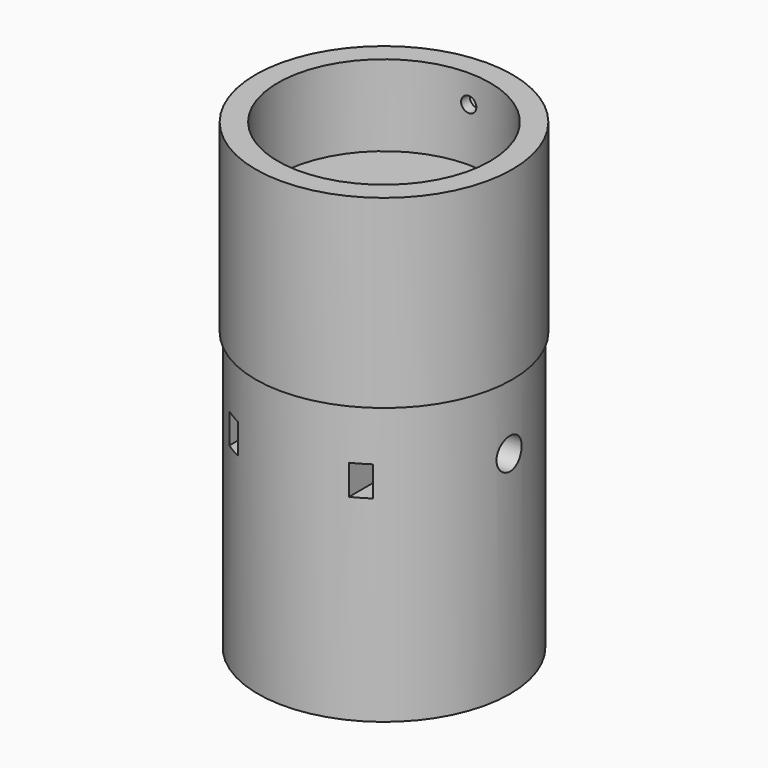
from build123d import *

# Parameters (mm, degrees)
CYLINDER005_R     = 1.65
CYLINDER005_DEPTH = 50
CYLINDER006_R     = 3.25
CYLINDER006_DEPTH = 2.5
BOX001_W          = 80
BOX001_H          = 100
BOX001_DEPTH      = 9.5
CYLINDER003_R     = 22.95
CYLINDER003_DEPTH = 27
CYLINDER004_R     = 27.75
CYLINDER004_DEPTH = 40
SKETCH006_R       = 27.25
SKETCH006_R_2     = 8.7
PAD_DEPTH         = 60
SKETCH007_W       = 3.5
SKETCH007_H       = 6.5
POCKET007_DEPTH   = 32.1
SKETCH008_R       = 1.7
POCKET008_DEPTH   = 30
SKETCH009_R       = 3.4
POCKET009_DEPTH   = 10
SKETCH010_R       = 1.7
POCKET010_DEPTH   = 30
SKETCH011_R       = 3.4
POCKET011_DEPTH   = 10
SKETCH012_W       = 3.5
SKETCH012_H       = 6.5
POCKET012_DEPTH   = 32.1


with BuildPart() as cylinder:
    # Cylinder005 → Cylinder005 (new body)
    with BuildSketch(Plane(origin=(0, 50, 20), x_dir=(1, 0, 0), z_dir=(0, -1, 0))):
        Circle(CYLINDER005_R)
    extrude(amount=CYLINDER005_DEPTH)


with BuildPart() as cylinder006:
    # Cylinder006 → Cylinder006 (new body)
    with BuildSketch(Plane(origin=(0, 27.75, 20), x_dir=(1, 0, 0), z_dir=(0, -1, 0))):
        Circle(CYLINDER006_R)
    extrude(amount=CYLINDER006_DEPTH)


with BuildPart() as obj1:
    # Box001 → Box001 (new body)
    with BuildSketch(Plane(origin=(-40, 0, -1), x_dir=(1, 0, 0), z_dir=(0, 0, 1))):
        with Locations((40, 50)):
            Rectangle(BOX001_W, BOX001_H)
    extrude(amount=BOX001_DEPTH)


with BuildPart() as fusion003:
    # Cylinder003 → Cylinder003 (new body)
    with BuildSketch(Plane.XY.offset(-1)):
        Circle(CYLINDER003_R)
    extrude(amount=CYLINDER003_DEPTH)

    # Cut004: cut obj1
    add(obj1.part, mode=Mode.SUBTRACT)

    # Fusion003: union Cylinder, Cylinder006
    add(cylinder.part)
    add(cylinder006.part)


with BuildPart() as obj2:
    # Cylinder004 → Cylinder004 (new body)
    with BuildSketch(Plane.XY.offset(-14)):
        Circle(CYLINDER004_R)
    extrude(amount=CYLINDER004_DEPTH)

    # Cut002: cut Fusion003
    add(fusion003.part, mode=Mode.SUBTRACT)

    # Sketch006 (on Face2 of BaseFeature002) → Pad (new body)
    with BuildSketch(Plane(origin=(0, 0, -14), x_dir=(1, 0, 0), z_dir=(0, 0, -1))):
        Circle(SKETCH006_R)
        Circle(SKETCH006_R_2, mode=Mode.SUBTRACT)
    extrude(amount=PAD_DEPTH)

    # Sketch007 → Pocket007 (cut)
    with BuildSketch(Plane.XZ.offset(28)):
        with Locations((13.75, -28.25)):
            Rectangle(SKETCH007_W, SKETCH007_H)
    extrude(amount=-POCKET007_DEPTH, mode=Mode.SUBTRACT)

    # Sketch008 → Pocket008 (cut)
    with BuildSketch(Plane.YZ.offset(28)):
        with Locations((0, -28.25)):
            Circle(SKETCH008_R)
    extrude(amount=-POCKET008_DEPTH, mode=Mode.SUBTRACT)

    # Sketch009 → Pocket009 (cut)
    with BuildSketch(Plane.YZ.offset(28)):
        with Locations((0, -28.25)):
            Circle(SKETCH009_R)
    extrude(amount=-POCKET009_DEPTH, mode=Mode.SUBTRACT)

    # Sketch010 → Pocket010 (cut)
    with BuildSketch(Plane.YZ.offset(-28)):
        with Locations((0, -28.25)):
            Circle(SKETCH010_R)
    extrude(amount=POCKET010_DEPTH, mode=Mode.SUBTRACT)

    # Sketch011 → Pocket011 (cut)
    with BuildSketch(Plane.YZ.offset(-28)):
        with Locations((0, -28.25)):
            Circle(SKETCH011_R)
    extrude(amount=POCKET011_DEPTH, mode=Mode.SUBTRACT)

    # Sketch012 → Pocket012 (cut)
    with BuildSketch(Plane(origin=(0, -28, 2), x_dir=(1, 0, 0), z_dir=(0, -1, 0))):
        with Locations((-13.75, -30.25)):
            Rectangle(SKETCH012_W, SKETCH012_H)
    extrude(amount=-POCKET012_DEPTH, mode=Mode.SUBTRACT)


solid = obj2.part
